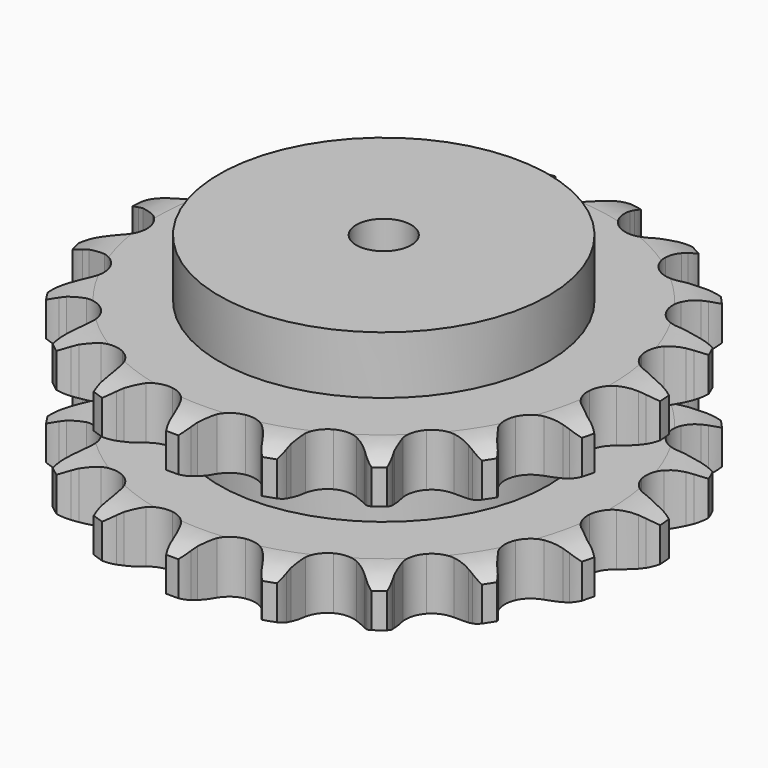
from build123d import *

# Parameters (mm, degrees)
PAD_DEPTH         = 88.4
SKETCH001_R       = 90
PAD001_DEPTH      = 120
SKETCH002_R       = 15
POCKET_DEPTH      = 0.001
POCKET_DEPTH_BACK = 120.001


with BuildPart() as part:
    # Sprocket → Pad (new body)
    with BuildSketch(Plane.XY):
        with BuildLine():
            ThreePointArc((-24.532188, 147.013343), (-20.296804, 142.818853), (-17.271768, 137.682572))
            Line((-17.271768, 137.682572), (-15.932112, 134.542592))
            ThreePointArc((-15.932112, 134.542592), (-13.770937, 130.276858), (-11.069649, 126.330949))
            ThreePointArc((-11.069649, 126.330949), (-6.153927, 122.36707), (0, 120.950789))
            ThreePointArc((0, 120.950789), (6.153927, 122.36707), (11.069649, 126.330949))
            ThreePointArc((11.069649, 126.330949), (13.770937, 130.276858), (15.932112, 134.542592))
            Line((15.932112, 134.542592), (17.271768, 137.682572))
            ThreePointArc((17.271768, 137.682572), (20.296804, 142.818853), (24.532188, 147.013343))
            ThreePointArc((24.532188, 147.013343), (27.176138, 141.670895), (28.369522, 135.830685))
            Line((28.369522, 135.830685), (28.617042, 132.425851))
            ThreePointArc((28.617042, 132.425851), (29.276037, 127.689515), (30.549727, 123.080299))
            ThreePointArc((30.549727, 123.080299), (33.912033, 117.735061), (39.272657, 114.397342))
            ThreePointArc((39.272657, 114.397342), (45.553013, 113.738708), (51.489457, 115.891681))
            Line((51.489457, 115.891681), (58.754774, 122.079555))
            ThreePointArc((58.754774, 122.079555), (59.868375, 123.373785), (61.041394, 124.614417))
            ThreePointArc((61.041394, 124.614417), (65.570273, 128.490172), (70.938121, 131.082166))
            ThreePointArc((70.938121, 131.082166), (71.704125, 125.170698), (70.936535, 119.259435))
            Line((70.936535, 119.259435), (70.065096, 115.958715))
            ThreePointArc((70.065096, 115.958715), (69.150498, 111.265031), (68.858567, 106.491989))
            ThreePointArc((68.858567, 106.491989), (70.303097, 100.344632), (74.289512, 95.447167))
            ThreePointArc((74.289512, 95.447167), (80.015723, 92.784992), (86.329583, 92.893751))
            Line((86.329583, 92.893751), (95.210445, 96.387304))
            ThreePointArc((95.210445, 96.387304), (96.683944, 97.249824), (98.196238, 98.042356))
            ThreePointArc((98.196238, 98.042356), (103.738186, 100.237587), (109.656808, 100.946203))
            ThreePointArc((109.656808, 100.946203), (108.461857, 95.106313), (105.816473, 89.764574))
            Line((105.816473, 89.764574), (103.920509, 86.925653))
            ThreePointArc((103.920509, 86.925653), (101.53143, 82.783255), (99.705512, 78.363619))
            ThreePointArc((99.705512, 78.363619), (99.07573, 72.080305), (101.255946, 66.153811))
            ThreePointArc((101.255946, 66.153811), (105.807488, 61.776583), (111.81456, 59.829341))
            Line((111.81456, 59.829341), (121.348587, 60.249993))
            ThreePointArc((121.348587, 60.249993), (123.022307, 60.587335), (124.709996, 60.845884))
            ThreePointArc((124.709996, 60.845884), (130.664456, 61.122705), (136.492478, 59.871152))
            ThreePointArc((136.492478, 59.871152), (133.466063, 54.735683), (129.229554, 50.54233))
            Line((129.229554, 50.54233), (126.514522, 48.472847))
            ThreePointArc((126.514522, 48.472847), (122.909856, 45.330628), (119.747818, 41.743335))
            ThreePointArc((119.747818, 41.743335), (117.111971, 36.004958), (117.249727, 29.691663))
            ThreePointArc((117.249727, 29.691663), (120.13337, 24.073722), (125.182694, 20.281494))
            Line((125.182694, 20.281494), (134.336727, 17.58366))
            ThreePointArc((134.336727, 17.58366), (136.029295, 17.359268), (137.709491, 17.055817))
            ThreePointArc((137.709491, 17.055817), (143.431205, 15.384228), (148.53707, 12.308133))
            ThreePointArc((148.53707, 12.308133), (144.007151, 8.433593), (138.638608, 5.843039))
            Line((138.638608, 5.843039), (135.398724, 4.767256))
            ThreePointArc((135.398724, 4.767256), (130.969092, 2.965724), (126.813589, 0.599513))
            ThreePointArc((126.813589, 0.599513), (122.457312, -3.972085), (120.537681, -9.988037))
            ThreePointArc((120.537681, -9.988037), (121.440937, -16.2379), (124.985341, -21.464167))
            Line((124.985341, -21.464167), (132.767397, -26.988135))
            ThreePointArc((132.767397, -26.988135), (134.295398, -27.749945), (135.786025, -28.582513))
            ThreePointArc((135.786025, -28.582513), (140.654957, -32.021368), (144.485366, -36.588664))
            ThreePointArc((144.485366, -36.588664), (138.94283, -38.782408), (133.024017, -39.489435))
            Line((133.024017, -39.489435), (129.610373, -39.454941))
            ThreePointArc((129.610373, -39.454941), (124.835794, -39.720561), (120.137141, -40.609275))
            ThreePointArc((120.137141, -40.609275), (114.532503, -43.51869), (110.763507, -48.585379))
            ThreePointArc((110.763507, -48.585379), (109.588495, -54.789894), (111.243886, -60.883853))
            Line((111.243886, -60.883853), (116.810661, -68.635346))
            ThreePointArc((116.810661, -68.635346), (118.00851, -69.852021), (119.148037, -71.123484))
            ThreePointArc((119.148037, -71.123484), (122.636563, -75.956952), (124.776431, -81.520511))
            ThreePointArc((124.776431, -81.520511), (118.821896, -81.795733), (112.994211, -80.542616))
            Line((112.994211, -80.542616), (109.776727, -79.401583))
            ThreePointArc((109.776727, -79.401583), (105.174602, -78.102508), (100.441969, -77.417418))
            ThreePointArc((100.441969, -77.417418), (94.19632, -78.349371), (88.986388, -81.917741))
            ThreePointArc((88.986388, -81.917741), (85.860438, -87.404552), (85.447431, -93.705829))
            Line((85.447431, -93.705829), (88.195676, -102.844854))
            ThreePointArc((88.195676, -102.844854), (88.933569, -104.384546), (89.598511, -105.957121))
            ThreePointArc((89.598511, -105.957121), (91.328594, -111.661421), (91.546033, -117.618345))
            ThreePointArc((91.546033, -117.618345), (85.824767, -115.945221), (80.719728, -112.867756))
            Line((80.719728, -112.867756), (78.04707, -110.743831))
            ThreePointArc((78.04707, -110.743831), (74.116109, -108.020836), (69.862351, -105.836183))
            ThreePointArc((69.862351, -105.836183), (63.652505, -104.689681), (57.566213, -106.373044))
            ThreePointArc((57.566213, -106.373044), (52.828071, -110.547571), (50.39142, -116.373324))
            Line((50.39142, -116.373324), (50.023322, -125.909525))
            ThreePointArc((50.023322, -125.909525), (50.221297, -127.605386), (50.339595, -129.308661))
            ThreePointArc((50.339595, -129.308661), (50.123754, -135.265643), (48.395202, -140.970407))
            ThreePointArc((48.395202, -140.970407), (43.527193, -137.530246), (39.69801, -132.961922))
            Line((39.69801, -132.961922), (37.859801, -130.085267))
            ThreePointArc((37.859801, -130.085267), (35.025985, -126.23343), (31.712064, -122.785955))
            ThreePointArc((31.712064, -122.785955), (26.210953, -119.68524), (19.907846, -119.301178))
            ThreePointArc((19.907846, -119.301178), (14.070963, -121.711046), (9.874718, -126.429964))
            Line((9.874718, -126.429964), (6.430164, -135.329946))
            ThreePointArc((6.430164, -135.329946), (6.066767, -136.998203), (5.625603, -138.647601))
            ThreePointArc((5.625603, -138.647601), (3.487228, -144.211734), (0, -149.046138))
            ThreePointArc((0, -149.046138), (-3.487228, -144.211734), (-5.625603, -138.647601))
            Line((-5.625603, -138.647601), (-6.430164, -135.329946))
            ThreePointArc((-6.430164, -135.329946), (-7.859747, -130.766674), (-9.874718, -126.429964))
            ThreePointArc((-9.874718, -126.429964), (-14.070963, -121.711046), (-19.907846, -119.301178))
            ThreePointArc((-19.907846, -119.301178), (-26.210953, -119.68524), (-31.712064, -122.785955))
            Line((-31.712064, -122.785955), (-37.859801, -130.085267))
            ThreePointArc((-37.859801, -130.085267), (-38.745191, -131.545138), (-39.69801, -132.961922))
            ThreePointArc((-39.69801, -132.961922), (-43.527193, -137.530246), (-48.395202, -140.970407))
            ThreePointArc((-48.395202, -140.970407), (-50.123754, -135.265643), (-50.339595, -129.308661))
            Line((-50.339595, -129.308661), (-50.023322, -125.909525))
            ThreePointArc((-50.023322, -125.909525), (-49.893754, -121.129319), (-50.39142, -116.373324))
            ThreePointArc((-50.39142, -116.373324), (-52.828071, -110.547571), (-57.566213, -106.373044))
            ThreePointArc((-57.566213, -106.373044), (-63.652505, -104.689681), (-69.862351, -105.836183))
            Line((-69.862351, -105.836183), (-78.04707, -110.743831))
            ThreePointArc((-78.04707, -110.743831), (-79.358506, -111.837117), (-80.719728, -112.867756))
            ThreePointArc((-80.719728, -112.867756), (-85.824767, -115.945221), (-91.546033, -117.618345))
            ThreePointArc((-91.546033, -117.618345), (-91.328594, -111.661421), (-89.598511, -105.957121))
            Line((-89.598511, -105.957121), (-88.195676, -102.844854))
            ThreePointArc((-88.195676, -102.844854), (-86.520998, -98.365723), (-85.447431, -93.705829))
            ThreePointArc((-85.447431, -93.705829), (-85.860438, -87.404552), (-88.986388, -81.917741))
            ThreePointArc((-88.986388, -81.917741), (-94.19632, -78.349371), (-100.441969, -77.417418))
            Line((-100.441969, -77.417418), (-109.776727, -79.401583))
            ThreePointArc((-109.776727, -79.401583), (-111.372096, -80.009809), (-112.994211, -80.542616))
            ThreePointArc((-112.994211, -80.542616), (-118.821896, -81.795733), (-124.776431, -81.520511))
            ThreePointArc((-124.776431, -81.520511), (-122.636563, -75.956952), (-119.148037, -71.123484))
            Line((-119.148037, -71.123484), (-116.810661, -68.635346))
            ThreePointArc((-116.810661, -68.635346), (-113.77235, -64.942675), (-111.243886, -60.883853))
            ThreePointArc((-111.243886, -60.883853), (-109.588495, -54.789894), (-110.763507, -48.585379))
            ThreePointArc((-110.763507, -48.585379), (-114.532503, -43.51869), (-120.137141, -40.609275))
            Line((-120.137141, -40.609275), (-129.610373, -39.454941))
            ThreePointArc((-129.610373, -39.454941), (-131.316791, -39.512196), (-133.024017, -39.489435))
            ThreePointArc((-133.024017, -39.489435), (-138.94283, -38.782408), (-144.485366, -36.588664))
            ThreePointArc((-144.485366, -36.588664), (-140.654957, -32.021368), (-135.786025, -28.582513))
            Line((-135.786025, -28.582513), (-132.767397, -26.988135))
            ThreePointArc((-132.767397, -26.988135), (-128.694702, -24.48208), (-124.985341, -21.464167))
            ThreePointArc((-124.985341, -21.464167), (-121.440937, -16.2379), (-120.537681, -9.988037))
            ThreePointArc((-120.537681, -9.988037), (-122.457312, -3.972085), (-126.813589, 0.599513))
            Line((-126.813589, 0.599513), (-135.398724, 4.767256))
            ThreePointArc((-135.398724, 4.767256), (-137.031274, 5.267176), (-138.638608, 5.843039))
            ThreePointArc((-138.638608, 5.843039), (-144.007151, 8.433593), (-148.53707, 12.308133))
            ThreePointArc((-148.53707, 12.308133), (-143.431205, 15.384228), (-137.709491, 17.055817))
            Line((-137.709491, 17.055817), (-134.336727, 17.58366))
            ThreePointArc((-134.336727, 17.58366), (-129.670986, 18.631528), (-125.182694, 20.281494))
            ThreePointArc((-125.182694, 20.281494), (-120.13337, 24.073722), (-117.249727, 29.691663))
            ThreePointArc((-117.249727, 29.691663), (-117.111971, 36.004958), (-119.747818, 41.743335))
            Line((-119.747818, 41.743335), (-126.514522, 48.472847))
            ThreePointArc((-126.514522, 48.472847), (-127.896293, 49.475768), (-129.229554, 50.54233))
            ThreePointArc((-129.229554, 50.54233), (-133.466063, 54.735683), (-136.492478, 59.871152))
            ThreePointArc((-136.492478, 59.871152), (-130.664456, 61.122705), (-124.709996, 60.845884))
            Line((-124.709996, 60.845884), (-121.348587, 60.249993))
            ThreePointArc((-121.348587, 60.249993), (-116.595407, 59.726121), (-111.81456, 59.829341))
            ThreePointArc((-111.81456, 59.829341), (-105.807488, 61.776583), (-101.255946, 66.153811))
            ThreePointArc((-101.255946, 66.153811), (-99.07573, 72.080305), (-99.705512, 78.363619))
            Line((-99.705512, 78.363619), (-103.920509, 86.925653))
            ThreePointArc((-103.920509, 86.925653), (-104.901763, 88.322893), (-105.816473, 89.764574))
            ThreePointArc((-105.816473, 89.764574), (-108.461857, 95.106313), (-109.656808, 100.946203))
            ThreePointArc((-109.656808, 100.946203), (-103.738186, 100.237587), (-98.196238, 98.042356))
            Line((-98.196238, 98.042356), (-95.210445, 96.387304))
            ThreePointArc((-95.210445, 96.387304), (-90.884907, 94.348462), (-86.329583, 92.893751))
            ThreePointArc((-86.329583, 92.893751), (-80.015723, 92.784992), (-74.289512, 95.447167))
            ThreePointArc((-74.289512, 95.447167), (-70.303097, 100.344632), (-68.858567, 106.491989))
            Line((-68.858567, 106.491989), (-70.065096, 115.958715))
            ThreePointArc((-70.065096, 115.958715), (-70.5395, 117.598861), (-70.936535, 119.259435))
            ThreePointArc((-70.936535, 119.259435), (-71.704125, 125.170698), (-70.938121, 131.082166))
            ThreePointArc((-70.938121, 131.082166), (-65.570273, 128.490172), (-61.041394, 124.614417))
            Line((-61.041394, 124.614417), (-58.754774, 122.079555))
            ThreePointArc((-58.754774, 122.079555), (-55.325616, 118.746683), (-51.489457, 115.891681))
            ThreePointArc((-51.489457, 115.891681), (-45.553013, 113.738708), (-39.272657, 114.397342))
            ThreePointArc((-39.272657, 114.397342), (-33.912033, 117.735061), (-30.549727, 123.080299))
            Line((-30.549727, 123.080299), (-28.617042, 132.425851))
            ThreePointArc((-28.617042, 132.425851), (-28.533187, 134.131169), (-28.369522, 135.830685))
            ThreePointArc((-28.369522, 135.830685), (-27.176138, 141.670895), (-24.532188, 147.013343))
        make_face()
    extrude(amount=PAD_DEPTH)

    # Sketch → Groove (revolve, cut)
    with BuildSketch(Plane.XZ):
        with BuildLine():
            ThreePointArc((124.128451, 0), (134.61654, 1.268279), (144.5, 5))
            Line((144.5, 5), (144.5, 23.8))
            ThreePointArc((144.5, 23.8), (134.61654, 27.531721), (124.128451, 28.8))
            Line((90, 28.8), (124.128451, 28.8))
            Line((90, 59.6), (90, 28.8))
            Line((124.128451, 59.6), (90, 59.6))
            ThreePointArc((124.128451, 59.6), (134.61654, 60.868279), (144.5, 64.6))
            Line((144.5, 64.6), (144.5, 83.4))
            ThreePointArc((144.5, 83.4), (134.61654, 87.131721), (124.128451, 88.4))
            Line((124.128451, 88.4), (154.5, 88.4))
            Line((154.5, 88.4), (154.5, 0))
            Line((124.128451, 0), (154.5, 0))
        make_face()
    revolve(axis=Axis((0, 0, 0), (0, 0, 1)), mode=Mode.SUBTRACT)

    # Sketch001 → Pad001 (join)
    with BuildSketch(Plane.XY):
        Circle(SKETCH001_R)
    extrude(amount=PAD001_DEPTH)

    # Sketch002 → Pocket (cut, two sides)
    with BuildSketch(Plane.XY) as pocket_sk:
        Circle(SKETCH002_R)
    extrude(amount=-POCKET_DEPTH, mode=Mode.SUBTRACT)
    extrude(pocket_sk.sketch, amount=POCKET_DEPTH_BACK, mode=Mode.SUBTRACT)


solid = part.part
